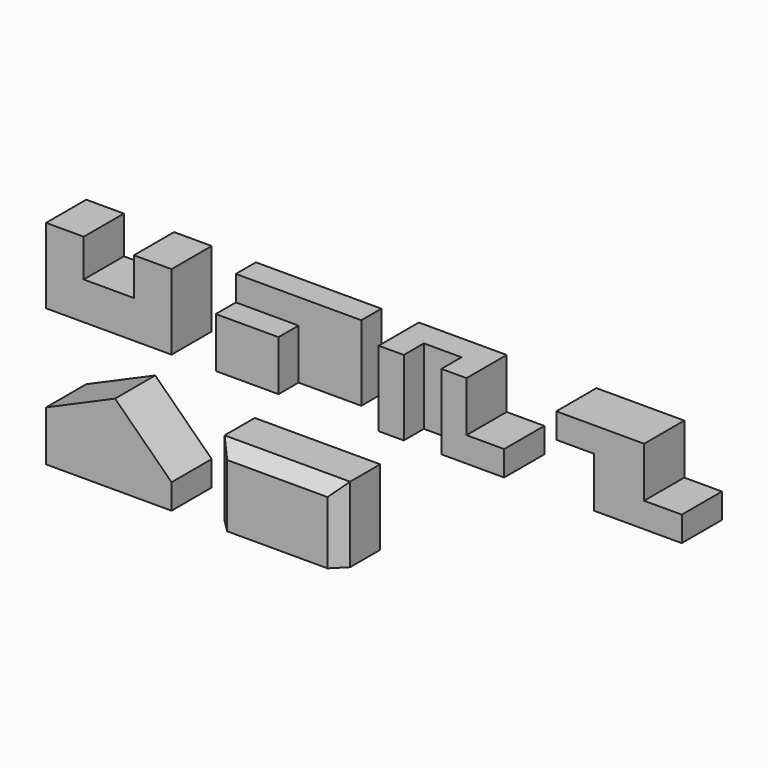
from build123d import *

# Parameters (mm, degrees)
F1_DEPTH   = 101.6
F3_DEPTH   = 152.4
F5_DEPTH   = 152.4
F4_W       = 76.2
F4_H       = 101.6
F6_DEPTH   = 50.8
F7_DEPTH   = 152.4
F9_W       = 127
F9_H       = 50.8
F10_DEPTH  = 50.8
F12_DEPTH  = 101.6
F14_DEPTH  = 101.6
F15_W      = 254
F15_H      = 152.4
F15_W_2    = 203.2
F15_H_2    = 101.6
F16_DEPTH  = 101.6
F16_FACE_W = 203.2
F16_FACE_H = 101.6
F17_DEPTH  = 109.22
F18_SIZE   = 25.4


with BuildPart() as f1:
    # F0 (on Front) → F1 (new body)
    with BuildSketch(Plane.XZ):
        Polygon((0, 152.4), (0, 0), (254, 0), (254, 152.4), (177.8, 152.4), (177.8, 76.2), (76.2, 76.2), (76.2, 152.4), align=None)
    extrude(amount=-F1_DEPTH)


with BuildPart() as f3:
    # F2 (on Top) → F3 (new body)
    with BuildSketch(Plane.XY):
        Polygon((343.48328, 101.6), (343.48328, 0), (470.48328, 0), (470.48328, 50.8), (597.48328, 50.8), (597.48328, 76.2), (597.48328, 101.6), align=None)
    extrude(amount=F3_DEPTH)

    # F2 (on Top) → F7 (join)
    with BuildSketch(Plane.XY):
        Polygon((343.48328, 101.6), (343.48328, 0), (470.48328, 0), (470.48328, 50.8), (597.48328, 50.8), (597.48328, 76.2), (597.48328, 101.6), align=None)
    extrude(amount=F7_DEPTH)

    # F9 (on face) → F10 (cut)
    with BuildSketch(Plane.XZ):
        with Locations((406.98328, 127)):
            Rectangle(F9_W, F9_H)
    extrude(amount=-F10_DEPTH, mode=Mode.SUBTRACT)


with BuildPart() as f5:
    # F4 (on Top) → F5 (new body)
    with BuildSketch(Plane.XY):
        Polygon((673.262379, 101.6), (673.262379, 0), (724.062379, 0), (724.062379, 50.8), (800.262379, 50.8), (800.262379, 0), (851.062379, 0), (851.062379, 101.6), align=None)
    extrude(amount=F5_DEPTH)

    # F4 (on Top) → F6 (join)
    with BuildSketch(Plane.XY):
        with Locations((889.162379, 50.8)):
            Rectangle(F4_W, F4_H)
    extrude(amount=F6_DEPTH)


with BuildPart() as f12:
    # F11 (on face) → F12 (new body)
    with BuildSketch(Plane.XZ):
        Polygon((1032.7878, 152.4), (1032.7878, 101.6), (1108.9878, 101.6), (1108.9878, 0), (1286.7878, 0), (1286.7878, 50.8), (1210.5878, 50.8), (1210.5878, 152.4), align=None)
    extrude(amount=-F12_DEPTH)


with BuildPart() as f14:
    # F13 (on Front) → F14 (new body)
    with BuildSketch(Plane.XZ):
        Polygon((0, -176.498294), (0, -278.098294), (254, -278.098294), (254, -227.298294), (139.648388, -115.47299), align=None)
    extrude(amount=-F14_DEPTH)


with BuildPart() as f16:
    # F15 (on face) → F16 (new body)
    with BuildSketch(Plane.XZ):
        with Locations((468.123402, -201.898294)):
            Rectangle(F15_W, F15_H)
        with Locations((465.806254, -200.559135)):
            Rectangle(F15_W_2, F15_H_2, mode=Mode.SUBTRACT)
    extrude(amount=-F16_DEPTH)

    # F16_face (on face) → F17 (join)
    with BuildSketch(Plane(origin=(465.806254, 50.8, -251.359135), x_dir=(1, 0, 0), z_dir=(0, 0, 1))):
        Rectangle(F16_FACE_W, F16_FACE_H)
    extrude(amount=F17_DEPTH)

    # F18
    f18_edges = [f16.edges().sort_by_distance(p)[0] for p in [
        (468.123402, 0, -125.698294),
        (595.123402, 0, -201.898294),
        (341.123402, 0, -201.898294),
    ]]
    chamfer(f18_edges, length=F18_SIZE)


solid = Compound([f1.part, f3.part, f5.part, f12.part, f14.part, f16.part])
